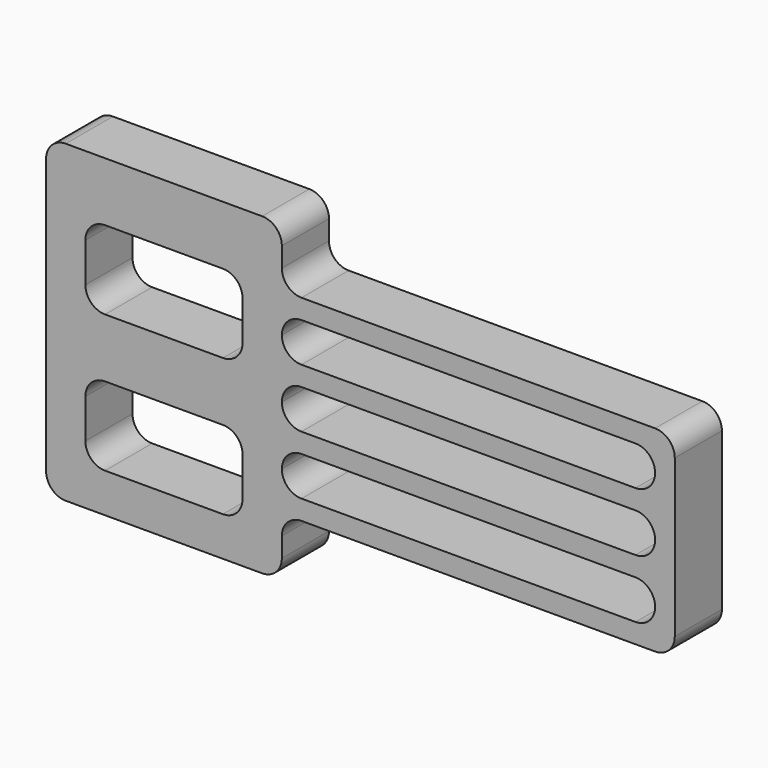
from build123d import *

# Parameters (mm, degrees)
F1_DEPTH = 30


with BuildPart() as f1:
    # F0 (on Front) → F1 (new body)
    with BuildSketch(Plane.XZ):
        with BuildLine():
            Line((-32.304952, 93.521444), (-132.304952, 93.521444))
            ThreePointArc((-132.304952, 93.521444), (-139.376019, 90.592511), (-142.304952, 83.521444))
            Line((-142.304952, 83.521444), (-142.304952, -56.478556))
            ThreePointArc((-142.304952, -56.478556), (-139.376019, -63.549624), (-132.304952, -66.478556))
            Line((-132.304952, -66.478556), (-32.304952, -66.478556))
            ThreePointArc((-32.304952, -66.478556), (-25.233884, -63.549624), (-22.304952, -56.478556))
            Line((-22.304952, -56.478556), (-22.304952, -46.478556))
            ThreePointArc((-22.304952, -46.478556), (-19.376019, -39.407489), (-12.304952, -36.478556))
            Line((-12.304952, -36.478556), (167.695048, -36.478556))
            ThreePointArc((167.695048, -36.478556), (174.766116, -33.549624), (177.695048, -26.478556))
            Line((177.695048, -26.478556), (177.695048, 53.521444))
            ThreePointArc((177.695048, 53.521444), (174.766116, 60.592511), (167.695048, 63.521444))
            Line((167.695048, 63.521444), (-12.304952, 63.521444))
            ThreePointArc((-12.304952, 63.521444), (-19.376019, 66.450376), (-22.304952, 73.521444))
            Line((-22.304952, 73.521444), (-22.304952, 83.521444))
            ThreePointArc((-22.304952, 83.521444), (-25.233884, 90.592511), (-32.304952, 93.521444))
        make_face()
        with BuildLine():
            ThreePointArc((-122.304952, -16.478556), (-119.376019, -9.407489), (-112.304952, -6.478556))
            Line((-112.304952, -6.478556), (-52.304952, -6.478556))
            ThreePointArc((-52.304952, -6.478556), (-45.233884, -9.407489), (-42.304952, -16.478556))
            Line((-42.304952, -16.478556), (-42.304952, -36.478556))
            ThreePointArc((-42.304952, -36.478556), (-45.233884, -43.549624), (-52.304952, -46.478556))
            Line((-52.304952, -46.478556), (-112.304952, -46.478556))
            ThreePointArc((-112.304952, -46.478556), (-119.376019, -43.549624), (-122.304952, -36.478556))
            Line((-122.304952, -36.478556), (-122.304952, -16.478556))
        make_face(mode=Mode.SUBTRACT)
        with BuildLine():
            ThreePointArc((-22.304952, -16.478556), (-19.376019, -9.407489), (-12.304952, -6.478556))
            Line((-12.304952, -6.478556), (157.695048, -6.478556))
            ThreePointArc((157.695048, -6.478556), (164.766116, -9.407489), (167.695048, -16.478556))
            ThreePointArc((167.695048, -16.478556), (164.766116, -23.549624), (157.695048, -26.478556))
            Line((157.695048, -26.478556), (-12.304952, -26.478556))
            ThreePointArc((-12.304952, -26.478556), (-19.376019, -23.549624), (-22.304952, -16.478556))
        make_face(mode=Mode.SUBTRACT)
        with BuildLine():
            ThreePointArc((-122.304952, 53.521444), (-119.376019, 60.592511), (-112.304952, 63.521444))
            Line((-112.304952, 63.521444), (-52.304952, 63.521444))
            ThreePointArc((-52.304952, 63.521444), (-45.233884, 60.592511), (-42.304952, 53.521444))
            Line((-42.304952, 53.521444), (-42.304952, 33.521444))
            ThreePointArc((-42.304952, 33.521444), (-45.233884, 26.450376), (-52.304952, 23.521444))
            Line((-52.304952, 23.521444), (-112.304952, 23.521444))
            ThreePointArc((-112.304952, 23.521444), (-119.376019, 26.450376), (-122.304952, 33.521444))
            Line((-122.304952, 33.521444), (-122.304952, 53.521444))
        make_face(mode=Mode.SUBTRACT)
        with BuildLine():
            ThreePointArc((-22.304952, 13.521444), (-19.376019, 20.592511), (-12.304952, 23.521444))
            Line((-12.304952, 23.521444), (157.695048, 23.521444))
            ThreePointArc((157.695048, 23.521444), (164.766116, 20.592511), (167.695048, 13.521444))
            ThreePointArc((167.695048, 13.521444), (164.766116, 6.450376), (157.695048, 3.521444))
            Line((157.695048, 3.521444), (-12.304952, 3.521444))
            ThreePointArc((-12.304952, 3.521444), (-19.376019, 6.450376), (-22.304952, 13.521444))
        make_face(mode=Mode.SUBTRACT)
        with BuildLine():
            ThreePointArc((-22.304952, 43.521444), (-19.376019, 50.592511), (-12.304952, 53.521444))
            Line((-12.304952, 53.521444), (157.695048, 53.521444))
            ThreePointArc((157.695048, 53.521444), (164.766116, 50.592511), (167.695048, 43.521444))
            ThreePointArc((167.695048, 43.521444), (164.766116, 36.450376), (157.695048, 33.521444))
            Line((157.695048, 33.521444), (-12.304952, 33.521444))
            ThreePointArc((-12.304952, 33.521444), (-19.376019, 36.450376), (-22.304952, 43.521444))
        make_face(mode=Mode.SUBTRACT)
    extrude(amount=F1_DEPTH)


solid = f1.part
